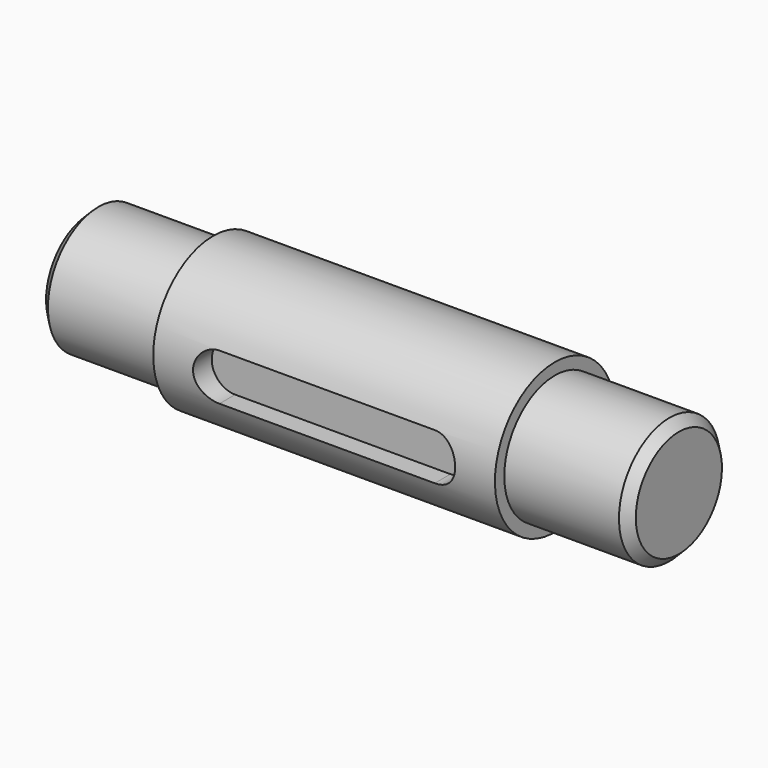
from build123d import *

# Parameters (mm, degrees)
F4_DEPTH = 5


with BuildPart() as f1:
    # F0 (on Front) → F1 (revolve)
    with BuildSketch(Plane.XZ):
        Polygon((36.5, 16), (0, 16), (-36.5, 16), (-36.5, 13.5), (-61, 13.5), (-63, 11.5), (-63, 0), (63, 0), (63, 11.5), (61, 13.5), (36.5, 13.5), align=None)
    revolve(axis=Axis((0, 0, 0), (1, 0, 0)))

    # F3 (on offset) → F4 (cut)
    with BuildSketch(Plane.XZ.offset(16)):
        with BuildLine():
            ThreePointArc((-23, 5), (-28, 0), (-23, -5))
            Line((-23, -5), (23, -5))
            ThreePointArc((23, -5), (28, 0), (23, 5))
            Line((23, 5), (-23, 5))
        make_face()
    extrude(amount=-F4_DEPTH, mode=Mode.SUBTRACT)


solid = f1.part
